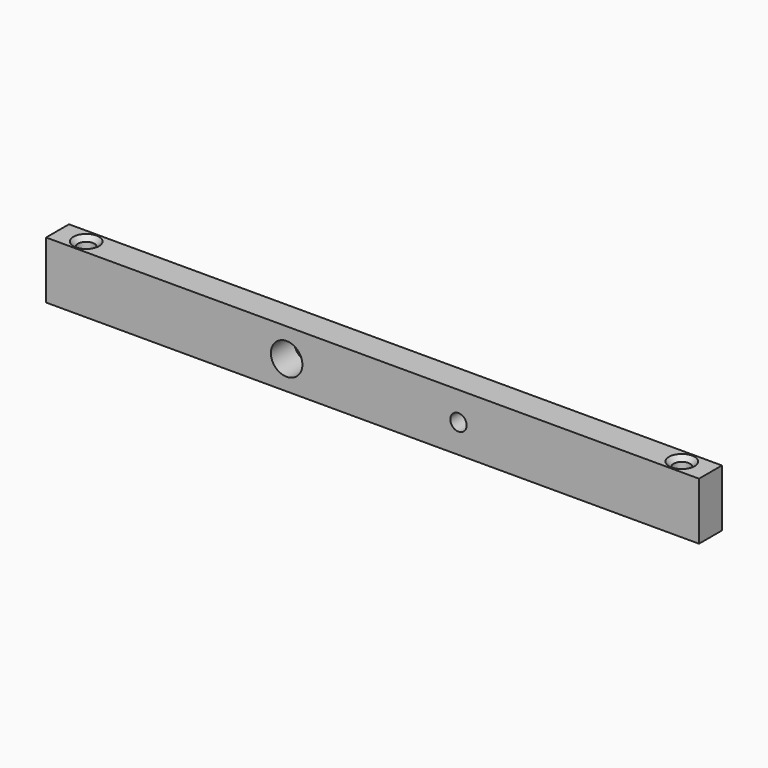
from build123d import *

# Parameters (mm, degrees)
SKETCH004_W     = 114
SKETCH004_H     = 5
PAD001_DEPTH    = 10
SKETCH005_R     = 1.43
POCKET003_DEPTH = 10
CHAMFER_SIZE    = 0.8
SKETCH009_R     = 2.75
SKETCH009_R_2   = 1.43
POCKET006_DEPTH = 5


with BuildPart() as part:
    # Sketch004 → Pad001 (new body)
    with BuildSketch(Plane.XY):
        with Locations((60, 45)):
            Rectangle(SKETCH004_W, SKETCH004_H)
    extrude(amount=PAD001_DEPTH)

    # Sketch005 (on Face6 of Pad001) → Pocket003 (cut)
    with BuildSketch(Plane.XY.offset(10)):
        with Locations((8, 45)):
            Circle(SKETCH005_R)
        with Locations((112, 45)):
            Circle(SKETCH005_R)
    extrude(amount=-POCKET003_DEPTH, mode=Mode.SUBTRACT)

    # Chamfer
    chamfer_edges = [part.edges().sort_by_distance(p)[0] for p in [
        (110.57, 45, 10),
        (6.57, 45, 10),
    ]]
    chamfer(chamfer_edges, length=CHAMFER_SIZE)

    # Sketch009 (on Face6 of Chamfer) → Pocket006 (cut)
    with BuildSketch(Plane.XZ.offset(-42.5)):
        with Locations((45, 5)):
            Circle(SKETCH009_R)
        with Locations((75, 5)):
            Circle(SKETCH009_R_2)
    extrude(amount=-POCKET006_DEPTH, mode=Mode.SUBTRACT)


with BuildPart() as part_1:
    # Body001 placement: moved
    add(part.part.moved(Location((0, 0, 8))))


solid = part_1.part
